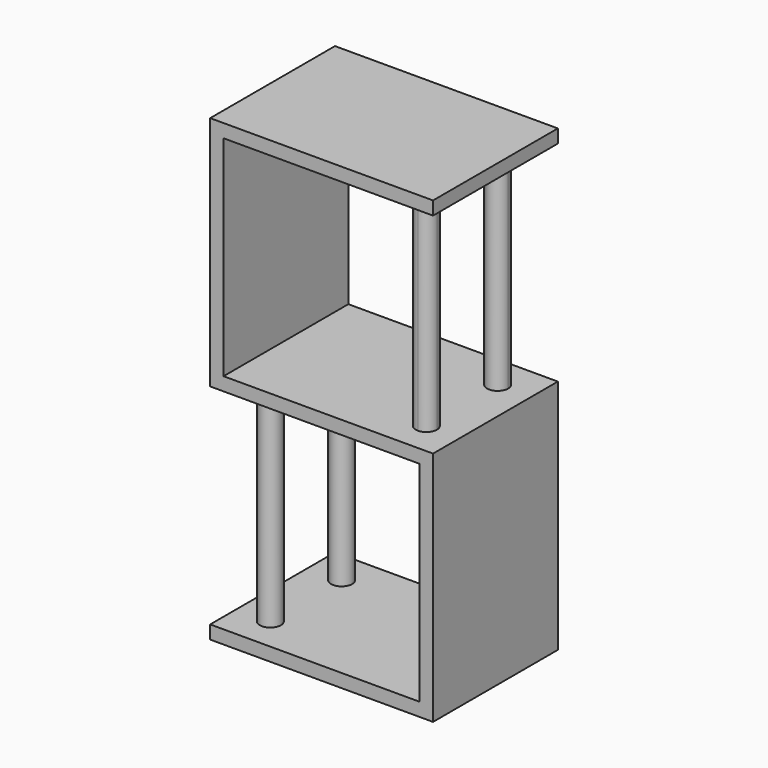
from build123d import *

# Parameters (mm, degrees)
F1_DEPTH  = 140
F2_W      = 12
F2_H      = 140
F3_DEPTH  = 206
F4_W      = 140
F4_H      = 12
F5_DEPTH  = 188
F6_W      = 12
F6_H      = 140
F7_DEPTH  = 200
F8_W      = 140
F8_H      = 12
F9_DEPTH  = 188
F10_R     = 9.5
F11_DEPTH = 200
F13_DEPTH = 200


with BuildPart() as f1:
    # F0 (on Front) → F1 (new body)
    with BuildSketch(Plane.XZ):
        Polygon((12, 6), (12, 0), (200, 0), (200, 12), (0, 12), (0, 6), align=None)
    extrude(amount=-F1_DEPTH)

    # F2 (on face) → F3 (join)
    with BuildSketch(Plane(origin=(0, 0, 6), x_dir=(1, 0, 0), z_dir=(0, 0, -1))):
        with Locations((6, -70)):
            Rectangle(F2_W, F2_H)
    extrude(amount=F3_DEPTH)

    # F4 (on face) → F5 (join)
    with BuildSketch(Plane.YZ.offset(12)):
        with Locations((70, -194)):
            Rectangle(F4_W, F4_H)
    extrude(amount=F5_DEPTH)

    # F6 (on face) → F7 (join)
    with BuildSketch(Plane(origin=(0, 0, -200), x_dir=(1, 0, 0), z_dir=(0, 0, -1))):
        with Locations((194, -70)):
            Rectangle(F6_W, F6_H)
    extrude(amount=F7_DEPTH)

    # F8 (on face) → F9 (join)
    with BuildSketch(Plane(origin=(188, 0, 0), x_dir=(0, -1, 0), z_dir=(-1, 0, 0))):
        with Locations((-70, -394)):
            Rectangle(F8_W, F8_H)
    extrude(amount=F9_DEPTH)

    # F10 (on face) → F11 (join)
    with BuildSketch(Plane.XY.offset(-388)):
        with Locations((30, 30)):
            Circle(F10_R)
        with Locations((30, 110)):
            Circle(F10_R)
    extrude(amount=F11_DEPTH)

    # F12 (on face) → F13 (join)
    with BuildSketch(Plane.XY.offset(-188)):
        with BuildLine():
            ThreePointArc((179.5, 110), (176.717514, 116.717514), (170, 119.5))
            Line((170, 119.5), (170, 110))
            Line((170, 110), (179.5, 110))
        make_face()
        with BuildLine():
            Line((170, 110), (170, 119.5))
            ThreePointArc((170, 119.5), (163.282486, 103.282486), (179.5, 110))
            Line((179.5, 110), (170, 110))
        make_face()
        with BuildLine():
            ThreePointArc((170, 20.5), (176.717514, 23.282486), (179.5, 30))
            Line((179.5, 30), (170, 30))
            Line((170, 30), (170, 20.5))
        make_face()
        with BuildLine():
            Line((170, 30), (179.5, 30))
            ThreePointArc((179.5, 30), (163.282486, 36.717514), (170, 20.5))
            Line((170, 20.5), (170, 30))
        make_face()
    extrude(amount=F13_DEPTH)


solid = f1.part
